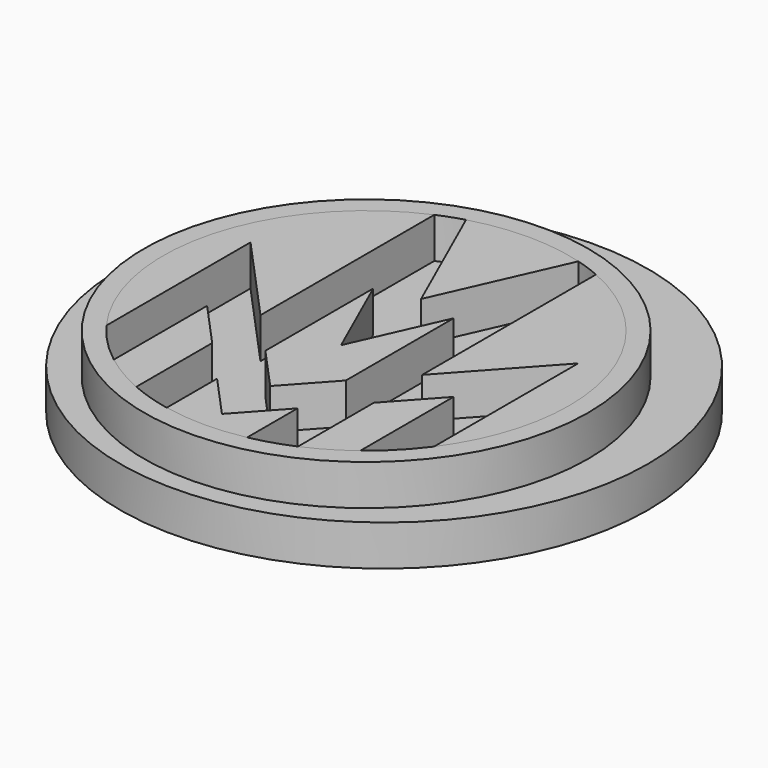
from build123d import *

# Parameters (mm, degrees)
F1_DEPTH = 3
F2_R     = 19.5
F2_R_2   = 1.748545
F3_DEPTH = 3
F0_R     = 16.410569
F4_DEPTH = 3


with BuildPart() as f1:
    # F0 (on Top) → F1 (new body)
    with BuildSketch(Plane.XY):
        with BuildLine():
            Line((-5.971908, -3.949249), (-5.971908, 12.102502))
            ThreePointArc((-5.971908, 12.102502), (-14.477266, 2.26795), (-12.104758, -10.516054))
            Line((-12.104758, -10.516054), (-12.104758, 2.79453))
            Line((-12.104758, 2.79453), (-5.971908, -3.949249))
        make_face()
        with BuildLine():
            Line((0, 3.414068), (4.150382, 12.756928))
            ThreePointArc((4.150382, 12.756928), (0, 13.342549), (-4.150382, 12.756928))
            Line((-4.150382, 12.756928), (0, 3.414068))
        make_face()
        with BuildLine():
            ThreePointArc((12.104758, -10.516054), (14.257829, -6.317313), (15, -1.657451))
            ThreePointArc((15, -1.657451), (12.541504, 6.5712), (5.971908, 12.102502))
            Line((5.971908, 12.102502), (5.971908, -3.949249))
            Line((5.971908, -3.949249), (12.104758, 2.79453))
            Line((12.104758, 2.79453), (12.104758, -10.516054))
        make_face()
        with BuildLine():
            ThreePointArc((5.971908, -15.417404), (7.594219, -14.592977), (9.104758, -13.578163))
            Line((9.104758, -13.578163), (9.104758, -4.963286))
            Line((9.104758, -4.963286), (5.971908, -8.408217))
            Line((5.971908, -8.408217), (5.971908, -15.417404))
        make_face()
        Polygon((2.971908, -7.248096), (2.971908, 2.714468), (0, -3.975548), (-2.971908, 2.714468), (-2.971908, -7.248096), (0, -10.516054), align=None)
        with BuildLine():
            ThreePointArc((-2.971908, -16.360096), (0, -16.657451), (2.971908, -16.360096))
            Line((2.971908, -16.360096), (2.971908, -13.733779))
            Line((2.971908, -13.733779), (2.971908, -11.707064))
            Line((2.971908, -11.707064), (0, -14.975022))
            Line((0, -14.975022), (-2.971908, -11.707064))
            Line((-2.971908, -11.707064), (-2.971908, -16.360096))
        make_face()
        with BuildLine():
            Line((-9.104758, -4.963286), (-9.104758, -13.578163))
            ThreePointArc((-9.104758, -13.578163), (-7.594219, -14.592977), (-5.971908, -15.417404))
            Line((-5.971908, -15.417404), (-5.971908, -8.408217))
            Line((-5.971908, -8.408217), (-9.104758, -4.963286))
        make_face()
    extrude(amount=F1_DEPTH)


with BuildPart() as f3:
    # F2 (on Top) → F3 (new body)
    with BuildSketch(Plane.XY):
        Circle(F2_R)
        with Locations((0, 16.527854)):
            Circle(F2_R_2, mode=Mode.SUBTRACT)
    extrude(amount=-F3_DEPTH)


with BuildPart() as f4:
    # F0 (on Top) → F4 (new body)
    with BuildSketch(Plane.XY):
        with Locations((0, -1.657451)):
            Circle(F0_R)
        with BuildLine():
            ThreePointArc((5.971908, 12.102502), (12.541504, 6.5712), (15, -1.657451))
            ThreePointArc((15, -1.657451), (14.257829, -6.317313), (12.104758, -10.516054))
            ThreePointArc((12.104758, -10.516054), (10.71471, -12.154831), (9.104758, -13.578163))
            ThreePointArc((9.104758, -13.578163), (7.594219, -14.592977), (5.971908, -15.417404))
            ThreePointArc((5.971908, -15.417404), (4.49668, -15.967583), (2.971908, -16.360096))
            ThreePointArc((2.971908, -16.360096), (0, -16.657451), (-2.971908, -16.360096))
            ThreePointArc((-2.971908, -16.360096), (-4.49668, -15.967583), (-5.971908, -15.417404))
            ThreePointArc((-5.971908, -15.417404), (-7.594219, -14.592977), (-9.104758, -13.578163))
            ThreePointArc((-9.104758, -13.578163), (-10.71471, -12.154831), (-12.104758, -10.516054))
            ThreePointArc((-12.104758, -10.516054), (-14.477266, 2.26795), (-5.971908, 12.102502))
            ThreePointArc((-5.971908, 12.102502), (-5.071711, 12.459126), (-4.150382, 12.756928))
            ThreePointArc((-4.150382, 12.756928), (0, 13.342549), (4.150382, 12.756928))
            ThreePointArc((4.150382, 12.756928), (5.071711, 12.459126), (5.971908, 12.102502))
        make_face(mode=Mode.SUBTRACT)
    extrude(amount=F4_DEPTH)


solid = Compound([f1.part, f3.part, f4.part])
